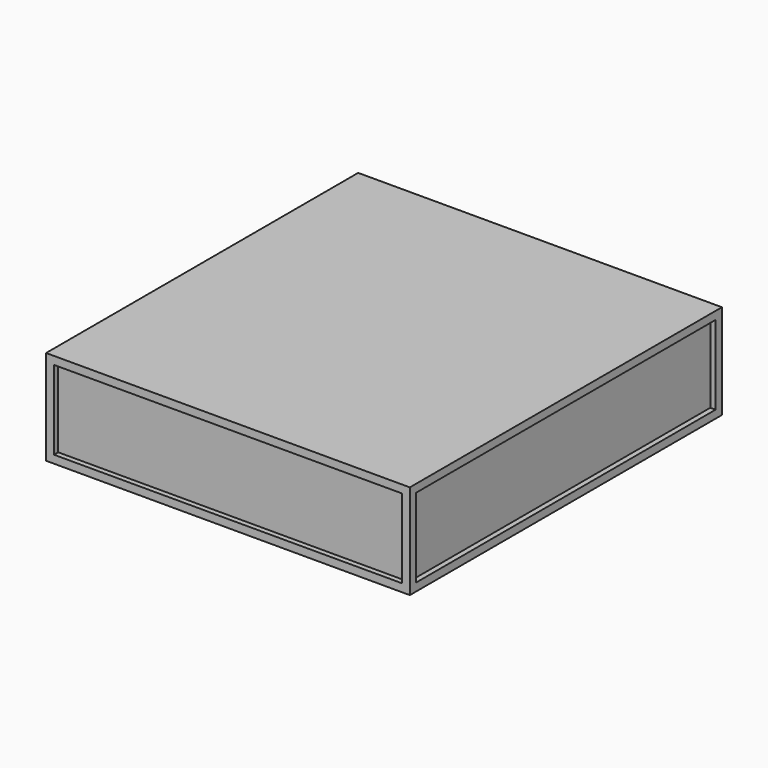
from build123d import *

# Parameters (mm, degrees)
F0_W      = 690
F0_H      = 740
F1_DEPTH  = 180
F2_W      = 650
F2_H      = 700
F3_DEPTH  = 70
F5_W      = 710
F5_H      = 150
F8_DEPTH  = 10
F7_W      = 660
F7_H      = 150
F9_DEPTH  = 10
F6_W      = 710
F6_H      = 150
F10_DEPTH = 10
F4_W      = 660
F4_H      = 150
F11_DEPTH = 10


with BuildPart() as f1:
    # F0 (on Top) → F1 (new body)
    with BuildSketch(Plane.XY):
        Rectangle(F0_W, F0_H)
        Rectangle(F0_W, F0_H)
    extrude(amount=F1_DEPTH)

    # F2 (on face) → F3 (cut)
    with BuildSketch(Plane(origin=(0, 0, 0), x_dir=(1, 0, 0), z_dir=(0, 0, -1))):
        Rectangle(F2_W, F2_H)
    extrude(amount=-F3_DEPTH, mode=Mode.SUBTRACT)

    # F5 (on face) → F8 (cut)
    with BuildSketch(Plane.YZ.offset(345)):
        with Locations((0, 90)):
            Rectangle(F5_W, F5_H)
    extrude(amount=-F8_DEPTH, mode=Mode.SUBTRACT)

    # F7 (on face) → F9 (cut)
    with BuildSketch(Plane(origin=(0, 370, 0), x_dir=(-1, 0, 0), z_dir=(0, 1, 0))):
        with Locations((0, 90)):
            Rectangle(F7_W, F7_H)
    extrude(amount=-F9_DEPTH, mode=Mode.SUBTRACT)

    # F6 (on face) → F10 (cut)
    with BuildSketch(Plane(origin=(-345, 0, 0), x_dir=(0, -1, 0), z_dir=(-1, 0, 0))):
        with Locations((0, 90)):
            Rectangle(F6_W, F6_H)
    extrude(amount=-F10_DEPTH, mode=Mode.SUBTRACT)

    # F4 (on face) → F11 (cut)
    with BuildSketch(Plane.XZ.offset(370)):
        with Locations((0, 90)):
            Rectangle(F4_W, F4_H)
    extrude(amount=-F11_DEPTH, mode=Mode.SUBTRACT)


solid = f1.part
